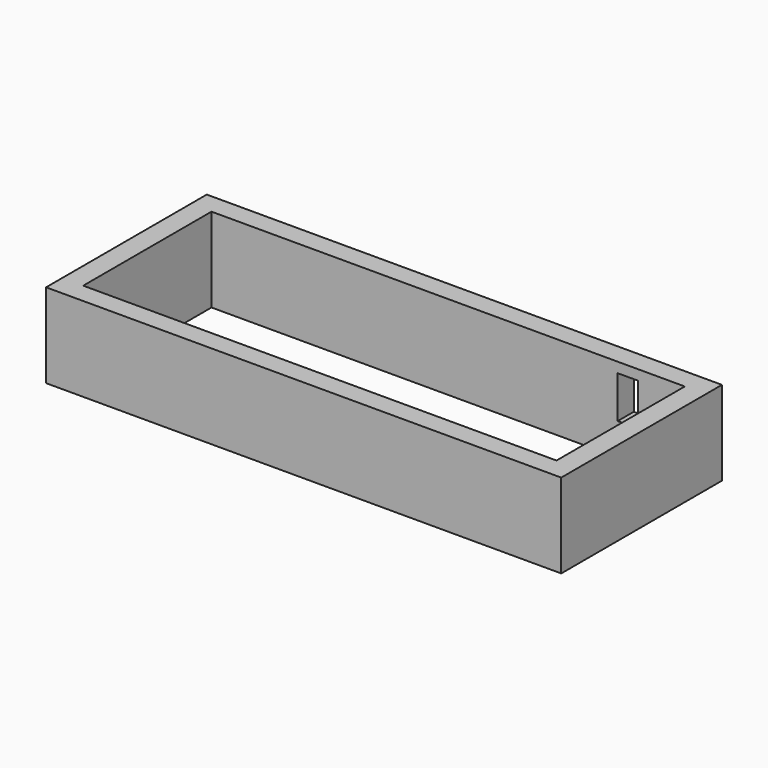
from build123d import *

# Parameters (mm, degrees)
F0_W     = 15260
F0_H     = 5950
F0_W_2   = 14020
F0_H_2   = 4750
F1_DEPTH = 2500
F2_W     = 610
F2_H     = 1250
F3_DEPTH = 600


with BuildPart() as f1:
    # F0 (on Top) → F1 (new body)
    with BuildSketch(Plane.XY):
        Rectangle(F0_W, F0_H)
        Rectangle(F0_W_2, F0_H_2, mode=Mode.SUBTRACT)
    extrude(amount=F1_DEPTH)

    # F2 (on face) → F3 (cut, through all)
    with BuildSketch(Plane(origin=(0, 2975, 0), x_dir=(-1, 0, 0), z_dir=(0, 1, 0))):
        with Locations((-5325.128345, 1575)):
            Rectangle(F2_W, F2_H)
    extrude(amount=-F3_DEPTH, mode=Mode.SUBTRACT)


solid = f1.part
